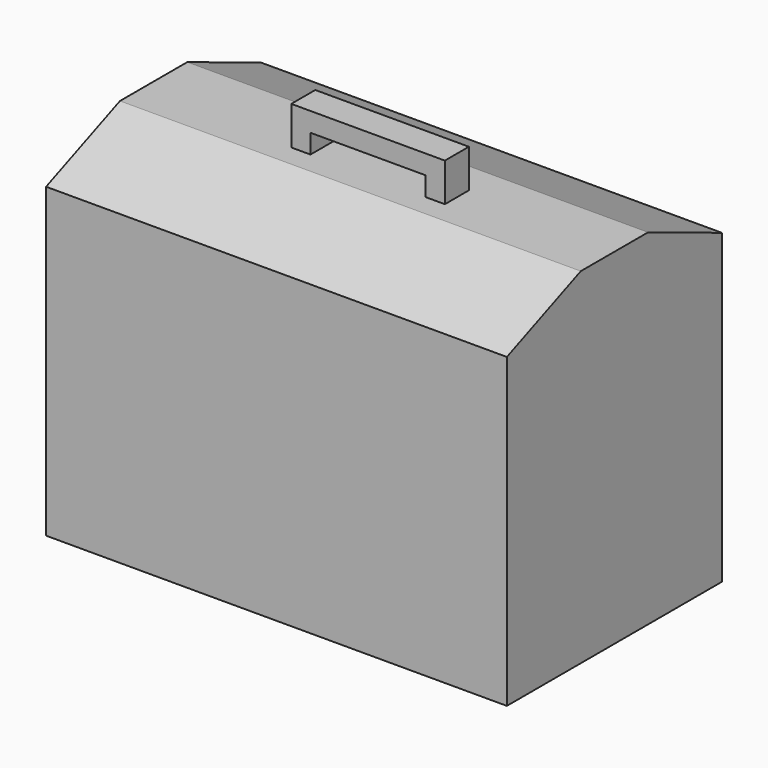
from build123d import *

# Parameters (mm, degrees)
F0_W     = 152.4
F0_H     = 88.9
F1_DEPTH = 101.6
F3_DEPTH = 152.4
F4_W     = 50.8
F4_H     = 9.9303191528
F5_DEPTH = 12.7
F6_W     = 38.1
F6_H     = 6.35
F7_DEPTH = 25.4
F8_T     = -7.62


with BuildPart() as f1:
    # F0 (on Top) → F1 (new body)
    with BuildSketch(Plane.XY):
        with Locations((-1.1791149259, -0.9629391849)):
            Rectangle(F0_W, F0_H)
    extrude(amount=F1_DEPTH)

    # F2 (on face) → F3 (join)
    with BuildSketch(Plane.YZ.offset(75.0208850741)):
        Polygon((-14.8739154544, 114.1574053684), (-45.4129391849, 101.6), (43.4870608151, 101.6), (12.9480370846, 114.1574053684), align=None)
    extrude(amount=-F3_DEPTH)

    # F4 (on face) → F5 (join)
    with BuildSketch(Plane.XY.offset(114.1574053684)):
        with Locations((-1.1791149259, -2.587900497)):
            Rectangle(F4_W, F4_H)
    extrude(amount=F5_DEPTH)

    # F6 (on face) → F7 (cut)
    with BuildSketch(Plane.XZ.offset(7.5530600734)):
        with Locations((-1.1791149259, 117.3324053684)):
            Rectangle(F6_W, F6_H)
    extrude(amount=-F7_DEPTH, mode=Mode.SUBTRACT)

    # F8
    f8_openings = [f1.faces().sort_by_distance(p)[0] for p in [
        (-1.179115, -0.962939, 0),
    ]]
    offset(amount=F8_T, openings=f8_openings, kind=Kind.INTERSECTION)


solid = f1.part
